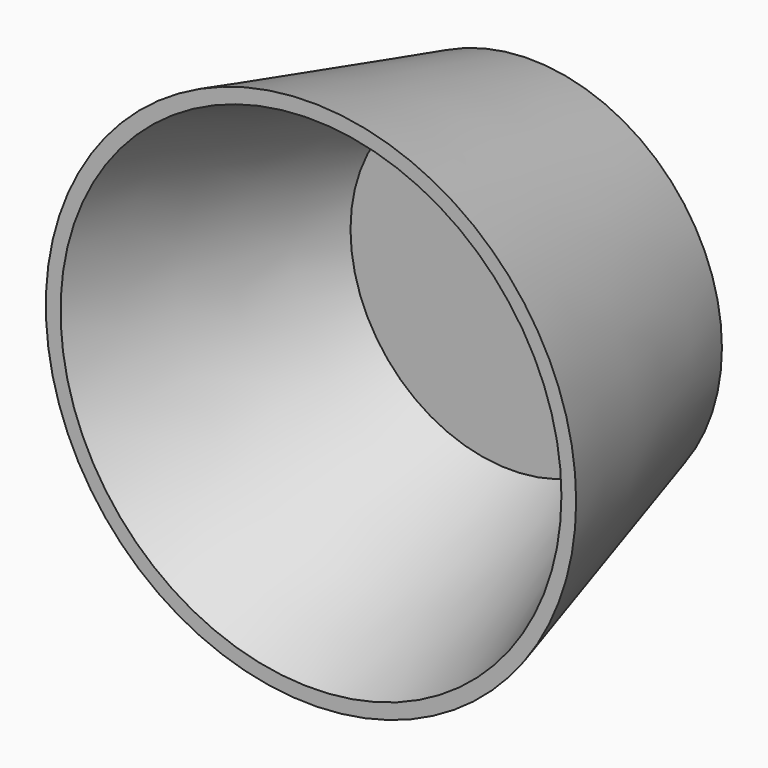
from build123d import *

# Parameters (mm, degrees)
F0_R     = 35
F1_DEPTH = 50
F1_TAPER = -15
F2_R     = 45.7089816199
F3_DEPTH = 45.466
F3_TAPER = 20


with BuildPart() as f1:
    # F0 (on Front) → F1 (new body)
    with BuildSketch(Plane.XZ):
        Circle(F0_R)
    extrude(amount=F1_DEPTH, taper=F1_TAPER)

    # F2 (on face) → F3 (cut)
    with BuildSketch(Plane.XZ.offset(50)):
        Circle(F2_R)
    extrude(amount=-F3_DEPTH, taper=F3_TAPER, mode=Mode.SUBTRACT)


solid = f1.part
